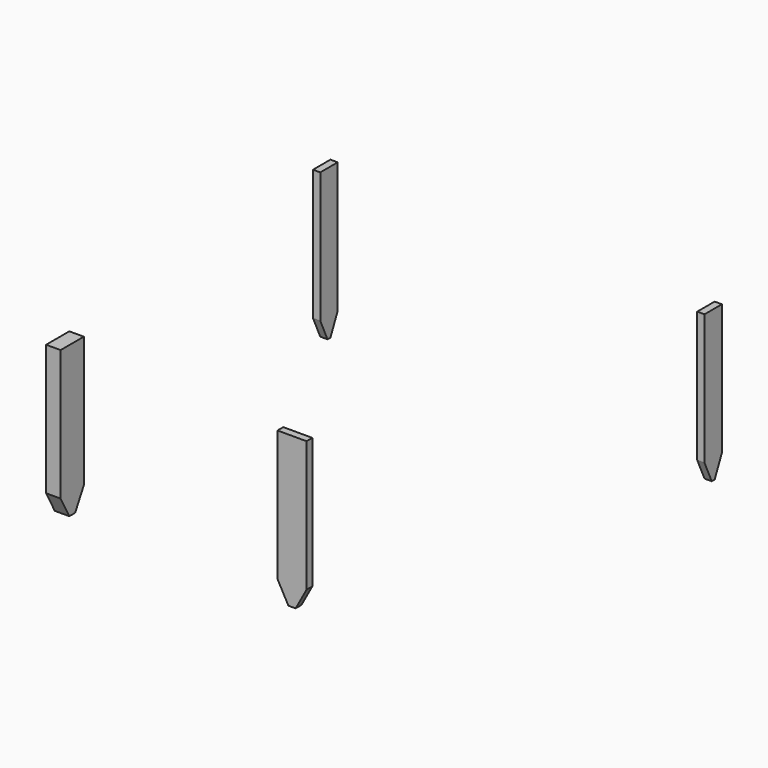
from build123d import *

# Parameters (mm, degrees)
BOX035_W           = 0.6
BOX035_H           = 0.2
BOX035_DEPTH       = 4.15
CHAMFER023_1_SIZE2 = 0.25
CHAMFER023_1_SIZE  = 0.55
CHAMFER023_2_SIZE2 = 0.25
CHAMFER023_2_SIZE  = 0.55
BOX034_W           = 0.8
BOX034_H           = 0.4
BOX034_DEPTH       = 4.15
CHAMFER022_1_SIZE2 = 0.3
CHAMFER022_1_SIZE  = 0.55
CHAMFER022_2_SIZE2 = 0.3
CHAMFER022_2_SIZE  = 0.55
BOX033_W           = 0.8
BOX033_H           = 0.2
BOX033_DEPTH       = 4.15
CHAMFER021_1_SIZE2 = 0.3
CHAMFER021_1_SIZE  = 0.55
CHAMFER021_2_SIZE2 = 0.3
CHAMFER021_2_SIZE  = 0.55
BOX036_W           = 0.6
BOX036_H           = 0.2
BOX036_DEPTH       = 4.15
CHAMFER024_1_SIZE2 = 0.25
CHAMFER024_1_SIZE  = 0.55
CHAMFER024_2_SIZE2 = 0.25
CHAMFER024_2_SIZE  = 0.55


with BuildPart() as obj1:
    # Box035 → Box035 (new body)
    with BuildSketch(Plane(origin=(5.39, 4.45, -1.75), x_dir=(0, 1, 0), z_dir=(0, 0, 1))):
        with Locations((0.3, 0.1)):
            Rectangle(BOX035_W, BOX035_H)
    extrude(amount=BOX035_DEPTH)

    # Chamfer023 1
    chamfer023_1_edges = [obj1.edges().sort_by_distance(p)[0] for p in [
        (5.29, 5.05, -1.75),
    ]]
    chamfer023_1_side = obj1.faces().sort_by_distance((5.29, 5.05, 0.325))[0]
    chamfer(chamfer023_1_edges, length=CHAMFER023_1_SIZE, length2=CHAMFER023_1_SIZE2, reference=chamfer023_1_side)

    # Chamfer023 2
    chamfer023_2_edges = [obj1.edges().sort_by_distance(p)[0] for p in [
        (5.29, 4.45, -1.75),
    ]]
    chamfer023_2_side = obj1.faces().sort_by_distance((5.29, 4.45, 0.325))[0]
    chamfer(chamfer023_2_edges, length=CHAMFER023_2_SIZE, length2=CHAMFER023_2_SIZE2, reference=chamfer023_2_side)


with BuildPart() as obj2:
    # Box034 → Box034 (new body)
    with BuildSketch(Plane(origin=(-4.38, -5.5, -1.75), x_dir=(0, 1, 0), z_dir=(0, 0, 1))):
        with Locations((0.4, 0.2)):
            Rectangle(BOX034_W, BOX034_H)
    extrude(amount=BOX034_DEPTH)

    # Chamfer022 1
    chamfer022_1_edges = [obj2.edges().sort_by_distance(p)[0] for p in [
        (-4.58, -4.7, -1.75),
    ]]
    chamfer022_1_side = obj2.faces().sort_by_distance((-4.58, -4.7, 0.325))[0]
    chamfer(chamfer022_1_edges, length=CHAMFER022_1_SIZE, length2=CHAMFER022_1_SIZE2, reference=chamfer022_1_side)

    # Chamfer022 2
    chamfer022_2_edges = [obj2.edges().sort_by_distance(p)[0] for p in [
        (-4.58, -5.5, -1.75),
    ]]
    chamfer022_2_side = obj2.faces().sort_by_distance((-4.58, -5.5, 0.325))[0]
    chamfer(chamfer022_2_edges, length=CHAMFER022_2_SIZE, length2=CHAMFER022_2_SIZE2, reference=chamfer022_2_side)


with BuildPart() as obj3:
    # Box033 → Box033 (new body)
    with BuildSketch(Plane(origin=(1.6, -5.51, -1.75), x_dir=(1, 0, 0), z_dir=(0, 0, 1))):
        with Locations((0.4, 0.1)):
            Rectangle(BOX033_W, BOX033_H)
    extrude(amount=BOX033_DEPTH)

    # Chamfer021 1
    chamfer021_1_edges = [obj3.edges().sort_by_distance(p)[0] for p in [
        (2.4, -5.41, -1.75),
    ]]
    chamfer021_1_side = obj3.faces().sort_by_distance((2.4, -5.41, 0.325))[0]
    chamfer(chamfer021_1_edges, length=CHAMFER021_1_SIZE, length2=CHAMFER021_1_SIZE2, reference=chamfer021_1_side)

    # Chamfer021 2
    chamfer021_2_edges = [obj3.edges().sort_by_distance(p)[0] for p in [
        (1.6, -5.41, -1.75),
    ]]
    chamfer021_2_side = obj3.faces().sort_by_distance((1.6, -5.41, 0.325))[0]
    chamfer(chamfer021_2_edges, length=CHAMFER021_2_SIZE, length2=CHAMFER021_2_SIZE2, reference=chamfer021_2_side)


with BuildPart() as obj4:
    # Box036 → Box036 (new body)
    with BuildSketch(Plane(origin=(-5.19, 4.45, -1.75), x_dir=(0, 1, 0), z_dir=(0, 0, 1))):
        with Locations((0.3, 0.1)):
            Rectangle(BOX036_W, BOX036_H)
    extrude(amount=BOX036_DEPTH)

    # Chamfer024 1
    chamfer024_1_edges = [obj4.edges().sort_by_distance(p)[0] for p in [
        (-5.29, 5.05, -1.75),
    ]]
    chamfer024_1_side = obj4.faces().sort_by_distance((-5.29, 5.05, 0.325))[0]
    chamfer(chamfer024_1_edges, length=CHAMFER024_1_SIZE, length2=CHAMFER024_1_SIZE2, reference=chamfer024_1_side)

    # Chamfer024 2
    chamfer024_2_edges = [obj4.edges().sort_by_distance(p)[0] for p in [
        (-5.29, 4.45, -1.75),
    ]]
    chamfer024_2_side = obj4.faces().sort_by_distance((-5.29, 4.45, 0.325))[0]
    chamfer(chamfer024_2_edges, length=CHAMFER024_2_SIZE, length2=CHAMFER024_2_SIZE2, reference=chamfer024_2_side)

    # Fusion009: union obj1, obj2, obj3
    add(obj1.part)
    add(obj2.part)
    add(obj3.part)


solid = obj4.part
